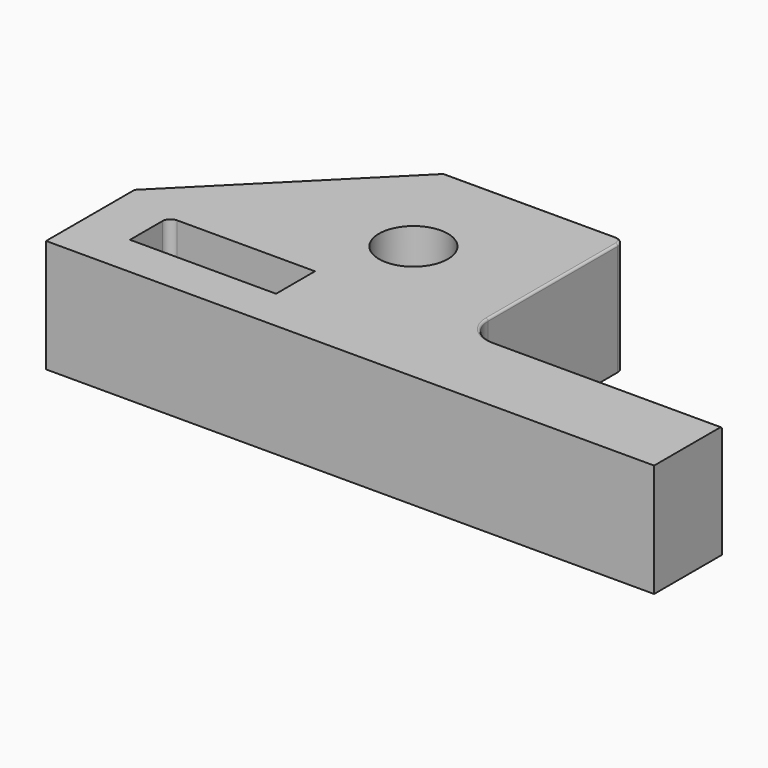
from build123d import *

# Parameters (mm, degrees)
F0_R     = 7.733721
F1_DEPTH = 25.4
F2_R     = 2
F3_R     = 0.5


with BuildPart() as f1:
    # F0 (on Top) → F1 (new body)
    with BuildSketch(Plane.XY):
        with BuildLine():
            Line((-110.162757, 0), (0, 0))
            Line((0, 0), (26.410511, 0))
            Line((26.410511, 0), (26.410511, 19.034607))
            Line((26.410511, 19.034607), (-24.819163, 19.034607))
            ThreePointArc((-24.819163, 19.034607), (-29.309291, 20.894479), (-31.169163, 25.384607))
            Line((-31.169163, 25.384607), (-31.169163, 63.743327))
            Line((-31.169163, 63.743327), (-71.819431, 63.743327))
            Line((-71.819431, 63.743327), (-110.162757, 25.4))
            Line((-110.162757, 25.4), (-110.162757, 0))
        make_face()
        with BuildLine():
            ThreePointArc((-98.943353, 18.6625), (-98.41362, 19.941388), (-97.134733, 20.47112))
            Line((-97.134733, 20.47112), (-66.135831, 20.47112))
            Line((-66.135831, 20.47112), (-66.135831, 9.535279))
            Line((-66.135831, 9.535279), (-98.943353, 9.535279))
            Line((-98.943353, 9.535279), (-98.943353, 18.6625))
        make_face(mode=Mode.SUBTRACT)
        with Locations((-58.564864, 38.641442)):
            Circle(F0_R, mode=Mode.SUBTRACT)
    extrude(amount=F1_DEPTH)

    # F2
    f2_edges = [f1.edges().sort_by_distance(p)[0] for p in [
        (-31.169163, 63.743327, 12.7),
    ]]
    fillet(f2_edges, radius=F2_R)

    # F3
    f3_edges = [f1.edges().sort_by_distance(p)[0] for p in [
        (-90.991094, 44.571663, 25.4),
        (-52.494297, 63.743327, 25.4),
    ]]
    fillet(f3_edges, radius=F3_R)


solid = f1.part
